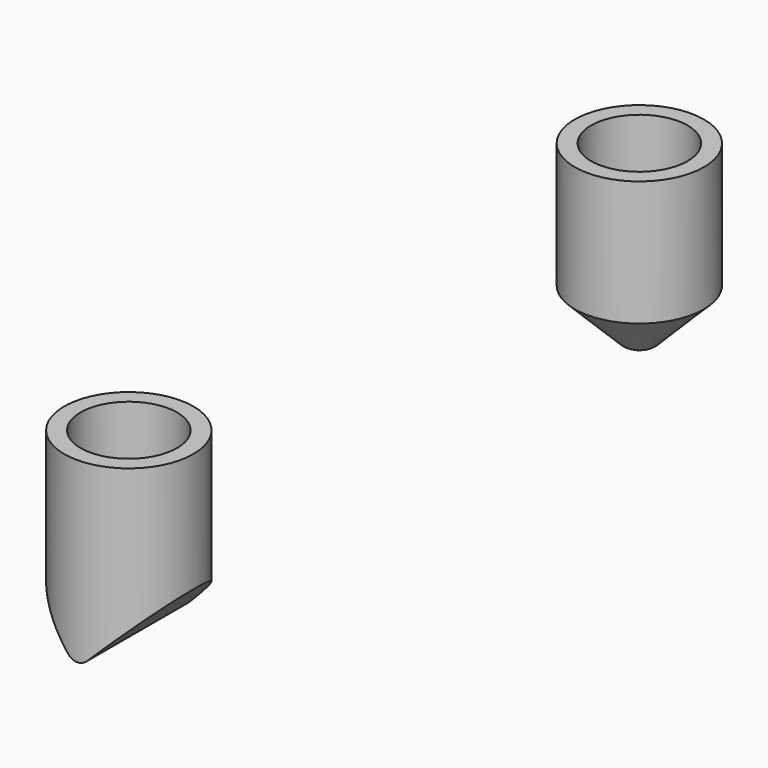
from build123d import *

# Parameters (mm, degrees)
F0_R     = 4.75
F0_R_2   = 3.55
F1_DEPTH = 13.5
F2_DEPTH = 6
F4_DEPTH = 12.5
F5_R     = 1
F6_R     = 4.75
F6_R_2   = 3.55
F7_DEPTH = 13
F8_DEPTH = 4
F9_SIZE  = 3.8
F10_R    = 1


with BuildPart() as f1:
    # F0 (on Top) → F1 (new body)
    with BuildSketch(Plane.XY):
        Circle(F0_R)
        Circle(F0_R_2, mode=Mode.SUBTRACT)
    extrude(amount=F1_DEPTH)

    # F0 (on Top) → F2 (join)
    with BuildSketch(Plane.XY):
        Circle(F0_R_2)
    extrude(amount=F2_DEPTH)

    # F3 (on Front) → F4 (cut, symmetric)
    with BuildSketch(Plane.XZ):
        Polygon((6.5688796352, 6.5688796352), (0, 0), (-5.8159730633, 5.8159730633), (-5.8159730633, -4.7987228955), (6.5688796352, -4.7987228955), align=None)
    extrude(amount=F4_DEPTH, both=True, mode=Mode.SUBTRACT)

    # F5
    f5_edges = [f1.edges().sort_by_distance(p)[0] for p in [
        (0, 0, 0),
    ]]
    fillet(f5_edges, radius=F5_R)


with BuildPart() as f7:
    # F6 (on Top) → F7 (new body)
    with BuildSketch(Plane.XY):
        with Locations((0, 46.9270383857)):
            Circle(F6_R)
        with Locations((0, 46.9270383857)):
            Circle(F6_R_2, mode=Mode.SUBTRACT)
    extrude(amount=F7_DEPTH)

    # F6 (on Top) → F8 (join)
    with BuildSketch(Plane.XY):
        with Locations((0, 46.9270383857)):
            Circle(F6_R_2)
    extrude(amount=F8_DEPTH)

    # F9
    f9_edges = [f7.edges().sort_by_distance(p)[0] for p in [
        (-4.75, 46.927038, 0),
    ]]
    chamfer(f9_edges, length=F9_SIZE)

    # F10
    f10_edges = [f7.edges().sort_by_distance(p)[0] for p in [
        (-0.95, 46.927038, 0),
    ]]
    fillet(f10_edges, radius=F10_R)


solid = Compound([f1.part, f7.part])
